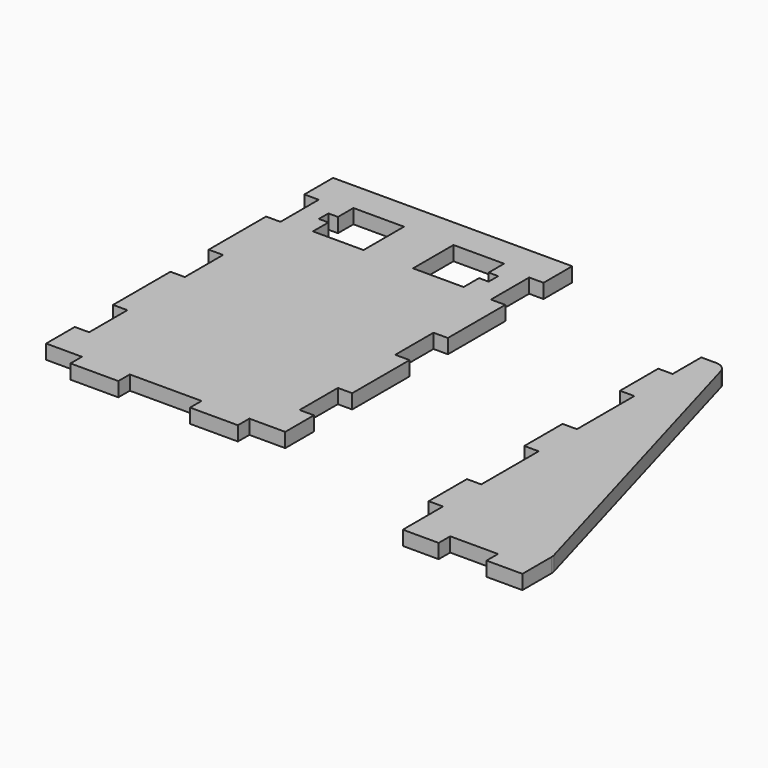
from build123d import *

# Parameters (mm, degrees)
F1_W     = 12
F1_H     = 40
F1_W_2   = 30
F1_H_2   = 12
F2_DEPTH = 12
F3_R     = 10
F4_W     = 40
F4_H     = 12
F5_DEPTH = 12
F6_W     = 8
F6_H     = 10
F7_DEPTH = 12


with BuildPart() as f2:
    # F1 (on Top) → F2 (new body)
    with BuildSketch(Plane.XY):
        with Locations((-10.7078695893, 29.9363255501)):
            Rectangle(F1_W, F1_H)
        with Locations((80.2921304107, -226.0636744499)):
            Rectangle(F1_W_2, F1_H_2)
        with Locations((10.2921304107, -226.0636744499)):
            Rectangle(F1_W_2, F1_H_2)
        with Locations((-10.7078695893, -170.0636744499)):
            Rectangle(F1_W, F1_H)
        with Locations((1.2921304107, 29.9363255501)):
            Rectangle(F1_W, F1_H)
        with Locations((1.2921304107, -170.0636744499)):
            Rectangle(F1_W, F1_H)
        Polygon((15.2921304107, 79.9363255501), (-4.7078695893, 79.9363255501), (-4.7078695893, 49.9363255501), (7.2921304107, 49.9363255501), (7.2921304107, 9.9363255501), (-4.7078695893, 9.9363255501), (-4.7078695893, -50.0636744499), (7.2921304107, -50.0636744499), (7.2921304107, -90.0636744499), (-4.7078695893, -90.0636744499), (-4.7078695893, -150.0636744499), (7.2921304107, -150.0636744499), (7.2921304107, -190.0636744499), (-4.7078695893, -190.0636744499), (-4.7078695893, -220.0636744499), (25.2921304107, -220.0636744499), (65.2921304107, -220.0636744499), (95.2921304107, -220.0636744499), (95.2921304107, -200.0636744499), align=None)
        with Locations((1.2921304107, -70.0636744499)):
            Rectangle(F1_W, F1_H)
        with Locations((-10.7078695893, -70.0636744499)):
            Rectangle(F1_W, F1_H)
    extrude(amount=F2_DEPTH)

    # F3
    f3_edges = [f2.edges().sort_by_distance(p)[0] for p in [
        (95.29213, -200.063674, 6),
        (15.29213, 79.936326, 6),
    ]]
    fillet(f3_edges, radius=F3_R)


with BuildPart() as f5:
    # F4 (on Top) → F5 (new body)
    with BuildSketch(Plane.XY):
        with Locations((-201.0779124498, -178.0181848854)):
            Rectangle(F4_W, F4_H)
        with Locations((-301.0779124498, -178.0181848854)):
            Rectangle(F4_W, F4_H)
        Polygon((-181.0779124498, -172.0181848854), (-151.0779124498, -172.0181848854), (-151.0779124498, -142.0181848854), (-163.0779124498, -142.0181848854), (-163.0779124498, -102.0181848854), (-151.0779124498, -102.0181848854), (-151.0779124498, -42.0181848854), (-163.0779124498, -42.0181848854), (-163.0779124498, -2.0181848854), (-151.0779124498, -2.0181848854), (-151.0779124498, 57.9818151146), (-163.0779124498, 57.9818151146), (-163.0779124498, 97.9818151146), (-151.0779124498, 97.9818151146), (-151.0779124498, 127.9818151146), (-351.0779124498, 127.9818151146), (-351.0779124498, 97.9818151146), (-339.0779124498, 97.9818151146), (-339.0779124498, 57.9818151146), (-351.0779124498, 57.9818151146), (-351.0779124498, -2.0181848854), (-339.0779124498, -2.0181848854), (-339.0779124498, -42.0181848854), (-351.0779124498, -42.0181848854), (-351.0779124498, -102.0181848854), (-339.0779124498, -102.0181848854), (-339.0779124498, -142.0181848854), (-351.0779124498, -142.0181848854), (-351.0779124498, -172.0181848854), (-321.0779124498, -172.0181848854), (-321.0779124498, -160.0181848854), (-281.0779124498, -160.0181848854), (-281.0779124498, -172.0181848854), (-221.0779124498, -172.0181848854), (-221.0779124498, -160.0181848854), (-181.0779124498, -160.0181848854), align=None)
        with Locations((-201.0779124498, -166.0181848854)):
            Rectangle(F4_W, F4_H)
        with Locations((-301.0779124498, -166.0181848854)):
            Rectangle(F4_W, F4_H)
    extrude(amount=F5_DEPTH)

    # F6 (on face) → F7 (cut, through all)
    with BuildSketch(Plane.XY.offset(12)):
        with Locations((-318.0779124498, 81.8318151146)):
            Rectangle(F6_W, F6_H)
        Polygon((-271.7779124498, 102.9818151146), (-314.0779124498, 102.9818151146), (-314.0779124498, 86.8318151146), (-306.0779124498, 86.8318151146), (-306.0779124498, 76.8318151146), (-314.0779124498, 76.8318151146), (-314.0779124498, 60.6818151146), (-271.7779124498, 60.6818151146), align=None)
        with Locations((-310.0779124498, 81.8318151146)):
            Rectangle(F6_W, F6_H)
        with Locations((-192.0779124498, 81.8318151146)):
            Rectangle(F6_W, F6_H)
        Polygon((-188.0779124498, 60.6818151146), (-188.0779124498, 76.8318151146), (-196.0779124498, 76.8318151146), (-196.0779124498, 86.8318151146), (-188.0779124498, 86.8318151146), (-188.0779124498, 102.9818151146), (-230.3779124498, 102.9818151146), (-230.3779124498, 60.6818151146), align=None)
        with Locations((-184.0779124498, 81.8318151146)):
            Rectangle(F6_W, F6_H)
    extrude(amount=-F7_DEPTH, mode=Mode.SUBTRACT)


solid = Compound([f2.part, f5.part])
